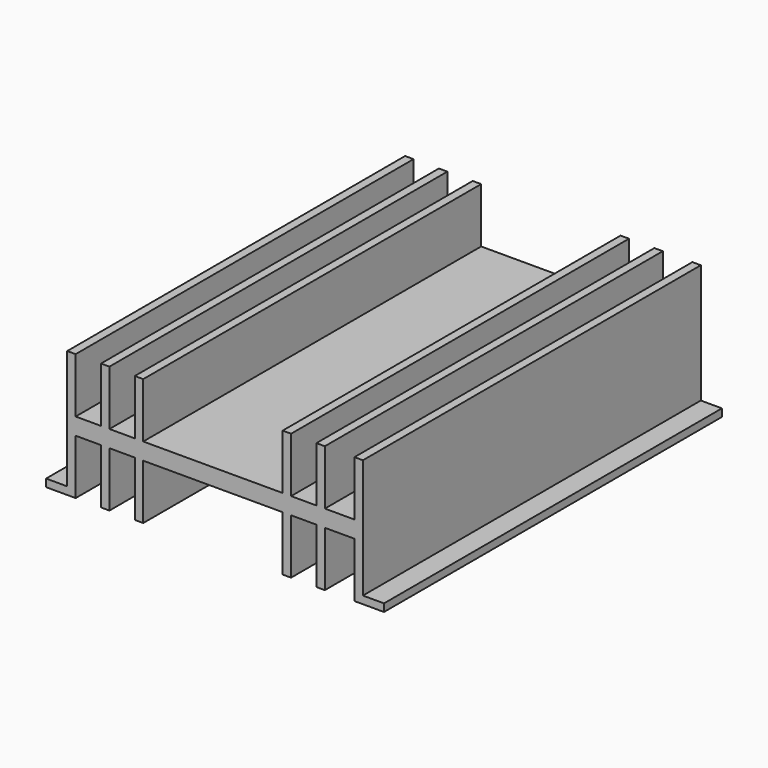
from build123d import *

# Parameters (mm, degrees)
SKETCH001_W            = 70
SKETCH001_H            = 100
PAD_DEPTH              = 4
SKETCH_W               = 2
SKETCH_H               = 30
PAD001_DEPTH           = 50
PAD001_DEPTH_BACK      = 50
LINEARPATTERN_COUNT    = 3
LINEARPATTERN_PITCH    = 8
LINEARPATTERN001_COUNT = 2
LINEARPATTERN001_PITCH = 51
LINEARPATTERN002_COUNT = 2
LINEARPATTERN002_PITCH = 59
SKETCH002_W            = 7
SKETCH002_H            = 1.8
PAD002_DEPTH           = 50
PAD002_DEPTH_BACK      = 50


with BuildPart() as part:
    # Sketch001 → Pad (new body)
    with BuildSketch(Plane.XY):
        Rectangle(SKETCH001_W, SKETCH001_H)
    extrude(amount=PAD_DEPTH)

    # Sketch → Pad001 (join, two sides)
    with BuildSketch(Plane.XZ) as pad001_sk:
        with Locations((-34, 2)):
            Rectangle(SKETCH_W, SKETCH_H)
    pad001 = extrude(amount=PAD001_DEPTH) + extrude(pad001_sk.sketch, amount=-PAD001_DEPTH_BACK)

    # Mirrored: Pad001 across Sketch V_Axis
    add(pad001.mirror(Plane(origin=(0, 0, 0), x_dir=(0, -1, 0), z_dir=(1, 0, 0))))

    # LinearPattern: Pad001 ×3
    with Locations(*[(i * LINEARPATTERN_PITCH, 0, 0) for i in range(1, LINEARPATTERN_COUNT)]):
        add(pad001)

    # LinearPattern001: Pad001 ×2
    with Locations(*[(i * LINEARPATTERN001_PITCH, 0, 0) for i in range(1, LINEARPATTERN001_COUNT)]):
        add(pad001)

    # LinearPattern002: Pad001 ×2
    with Locations(*[(i * LINEARPATTERN002_PITCH, 0, 0) for i in range(1, LINEARPATTERN002_COUNT)]):
        add(pad001)

    # Sketch002 → Pad002 (join, two sides)
    with BuildSketch(Plane.XZ) as pad002_sk:
        with Locations((36.5, -12.1)):
            Rectangle(SKETCH002_W, SKETCH002_H)
    pad002 = extrude(amount=PAD002_DEPTH) + extrude(pad002_sk.sketch, amount=-PAD002_DEPTH_BACK)

    # Mirrored001: Pad002 across Sketch002 V_Axis
    add(pad002.mirror(Plane(origin=(0, 0, 0), x_dir=(0, -1, 0), z_dir=(1, 0, 0))))


solid = part.part
